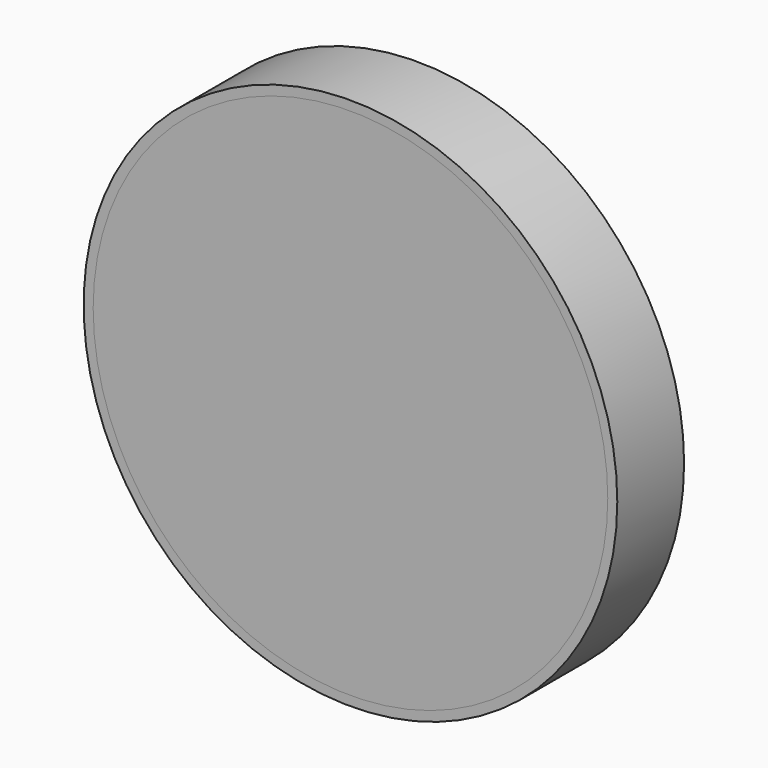
from build123d import *

# Parameters (mm, degrees)
F0_R     = 81.1666052838
F0_R_2   = 78.2687130008
F1_DEPTH = 25.4
F2_DEPTH = 7.62
F4_DEPTH = 1.778


with BuildPart() as f1:
    # F0 (on Front) → F1 (new body)
    with BuildSketch(Plane.XZ):
        Circle(F0_R)
        Circle(F0_R_2, mode=Mode.SUBTRACT)
    extrude(amount=-F1_DEPTH)


with BuildPart() as f2:
    # F0 (on Front) → F2 (new body)
    with BuildSketch(Plane.XZ):
        Circle(F0_R_2)
    extrude(amount=-F2_DEPTH)

    # F3 (on face) → F4 (join)
    with BuildSketch(Plane(origin=(0, 7.62, 0), x_dir=(-1, 0, 0), z_dir=(0, 1, 0))):
        Polygon((-10.5537576601, 70.7562640309), (-14.3730528653, 70.4624727368), (-14.3730528653, 51.0722063482), (-10.5537576601, 51.0722063482), align=None)
        with BuildLine():
            Line((-4.4572395273, 64.1473084688), (0, 64.1473084688))
            add(Edge.make_bspline(
                [(0, 64.1473084688), (-0.3239775419, 66.4147667703), (-1.0070591788, 71.1955275563), (6.1574537097, 62.8676957006), (2.4220884556, 51.7142923801), (0, 44.4821938872)],
                knots=[0, 0, 0, 0, 0.2408073508, 0.5077237094, 1, 1, 1, 1], degree=3))
            Line((0, 44.4821938872), (-4.4572395273, 44.4821938872))
            Line((-4.4572395273, 44.4821938872), (-4.4572395273, 32.6831303537))
            Line((-4.4572395273, 32.6831303537), (14.9269392714, 32.6831303537))
            Line((14.9269392714, 32.6831303537), (14.9269392714, 37.7398729324))
            Line((14.9269392714, 37.7398729324), (0, 37.7398729324))
            add(Edge.make_bspline(
                [(-4.4572395273, 64.1473084688), (-3.4485570444, 68.4396628198), (-1.3209009983, 77.4937049409), (13.8701505565, 62.7562359896), (5.2000749142, 47.1187878511), (0, 37.7398729324)],
                knots=[0, 0, 0, 0, 0.26512685, 0.5592431266, 1, 1, 1, 1], degree=3))
        make_face()
    extrude(amount=F4_DEPTH)


solid = Compound([f1.part, f2.part])
